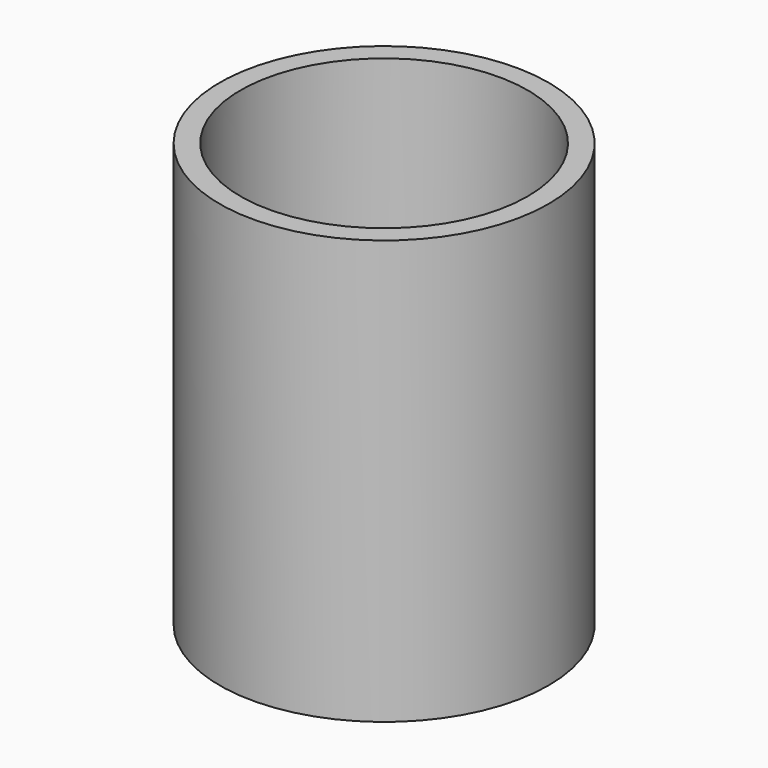
from build123d import *

# Parameters (mm, degrees)
F0_R     = 20.098633
F1_DEPTH = 51.816
F2_T     = -2.54


with BuildPart() as f1:
    # F0 (on Top) → F1 (new body)
    with BuildSketch(Plane.XY):
        with Locations((19.386865, -5.301367)):
            Circle(F0_R)
    extrude(amount=F1_DEPTH)

    # F2
    f2_openings = [f1.faces().sort_by_distance(p)[0] for p in [
        (19.386865, -5.301367, 51.816),
    ]]
    offset(amount=F2_T, openings=f2_openings)


solid = f1.part
